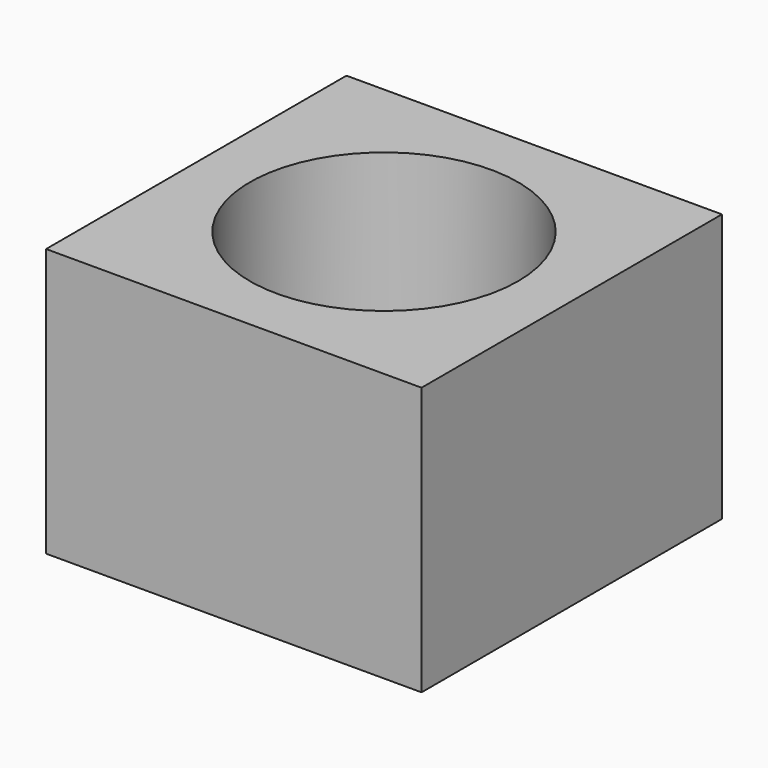
from build123d import *

# Parameters (mm, degrees)
SKETCH_W  = 9.8
SKETCH_H  = 9.8
SKETCH_R  = 3.5
PAD_DEPTH = 7


with BuildPart() as part:
    # Sketch → Pad (new body)
    with BuildSketch(Plane.XY):
        Rectangle(SKETCH_W, SKETCH_H)
        Circle(SKETCH_R, mode=Mode.SUBTRACT)
    extrude(amount=PAD_DEPTH)


solid = part.part
